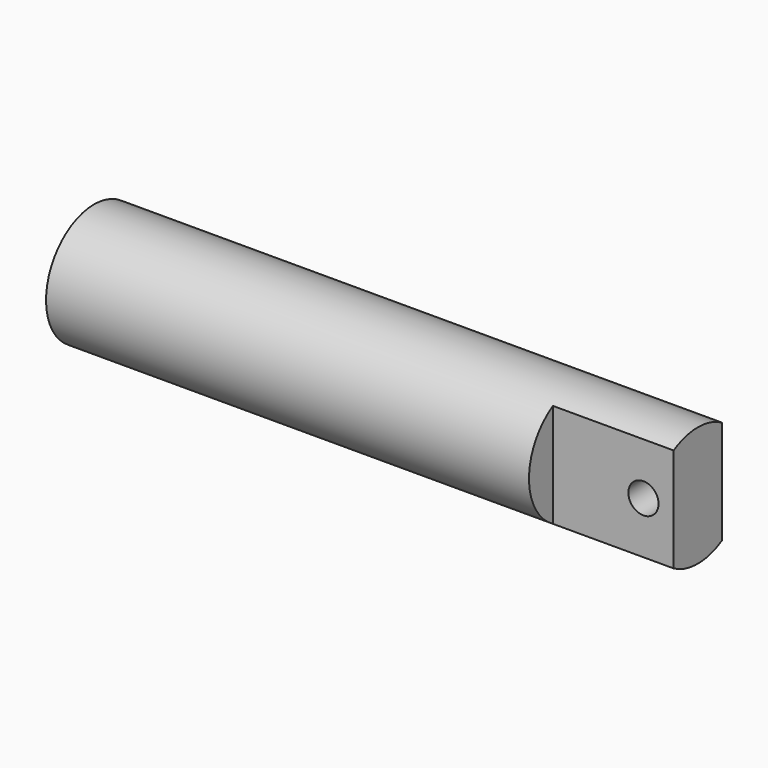
from build123d import *

# Parameters (mm, degrees)
F2_W     = 25.4
F2_H     = 6.2865
F2_H_2   = 6.2992
F3_DEPTH = 63.5
F4_R     = 3.175
F5_DEPTH = 50.8


with BuildPart() as f1:
    # F0 (on Front) → F1 (revolve)
    with BuildSketch(Plane.XZ):
        with BuildLine():
            Line((133.35, 12.6365), (6.35, 12.6365))
            Line((6.35, 12.6365), (6.35, 10.9985226281))
            ThreePointArc((6.35, 10.9985226281), (10.9985226281, 6.35), (12.7, 0))
            Line((12.7, 0), (133.35, 0))
            Line((133.35, 0), (133.35, 12.6365))
        make_face()
    revolve(axis=Axis((73.025, 0, 0), (1, 0, 0)))

    # F2 (on Top) → F3 (cut, symmetric)
    with BuildSketch(Plane.XY):
        with Locations((120.65, 9.49325)):
            Rectangle(F2_W, F2_H)
        with Locations((120.65, -9.4996)):
            Rectangle(F2_W, F2_H_2)
    extrude(amount=F3_DEPTH, both=True, mode=Mode.SUBTRACT)

    # F4 (on face) → F5 (cut)
    with BuildSketch(Plane.XZ.offset(6.35)):
        with Locations((127, 0)):
            Circle(F4_R)
    extrude(amount=-F5_DEPTH, mode=Mode.SUBTRACT)


solid = f1.part
